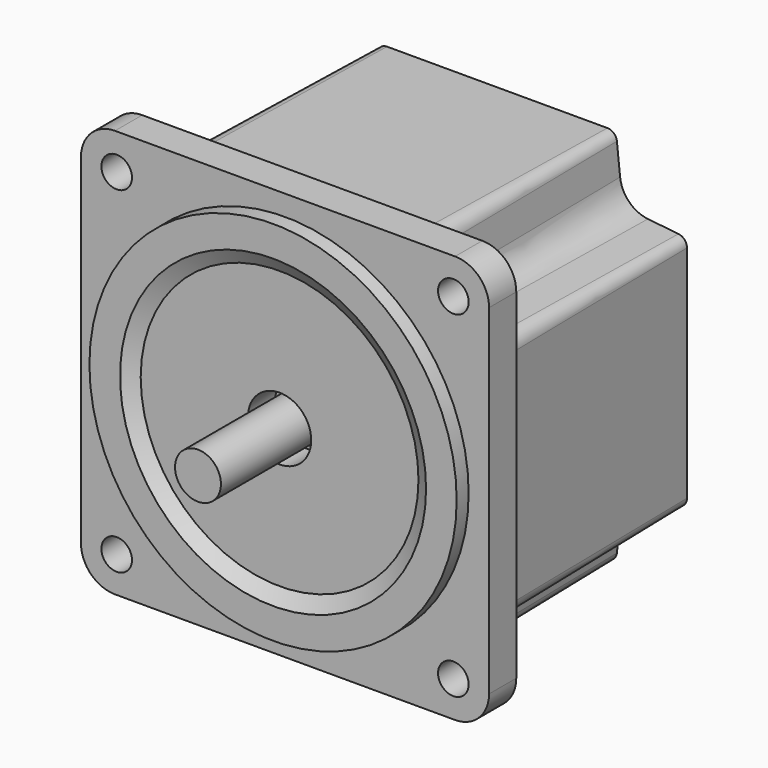
from build123d import *

# Parameters (mm, degrees)
F0_R      = 2.25
F1_DEPTH  = 5
F3_DEPTH  = 34
F3_TAPER  = 1
F4_R      = 27
F5_DEPTH  = 2.2
F6_R      = 22.5
F7_DEPTH  = 1.2
F7_TAPER  = 60
F8_R      = 4.65
F9_DEPTH  = 5
F10_R     = 3.375
F11_DEPTH = 20


with BuildPart() as f1:
    # F0 (on Front) → F1 (new body)
    with BuildSketch(Plane.XZ):
        with BuildLine():
            ThreePointArc((30, 25), (28.5355339059, 28.5355339059), (25, 30))
            Line((25, 30), (-25, 30))
            ThreePointArc((-25, 30), (-28.5355339059, 28.5355339059), (-30, 25))
            Line((-30, 25), (-30, -25))
            ThreePointArc((-30, -25), (-28.5355339059, -28.5355339059), (-25, -30))
            Line((-25, -30), (25, -30))
            ThreePointArc((25, -30), (28.5355339059, -28.5355339059), (30, -25))
            Line((30, -25), (30, 25))
        make_face()
        with Locations((-24.75, -24.75)):
            Circle(F0_R, mode=Mode.SUBTRACT)
        with Locations((24.75, -24.75)):
            Circle(F0_R, mode=Mode.SUBTRACT)
        with Locations((-24.75, 24.75)):
            Circle(F0_R, mode=Mode.SUBTRACT)
        with Locations((24.75, 24.75)):
            Circle(F0_R, mode=Mode.SUBTRACT)
    extrude(amount=-F1_DEPTH)

    # F2 (on face) → F3 (join)
    with BuildSketch(Plane(origin=(0, 5, 0), x_dir=(-1, 0, 0), z_dir=(0, 1, 0))):
        with BuildLine():
            Line((-16.1994765079, -28.5), (16.1994765079, -28.5))
            ThreePointArc((16.1994765079, -28.5), (17.5376209063, -27.9863948227), (18.1884874138, -26.709369569))
            Line((18.1884874138, -26.709369569), (18.6610206978, -22.2203033714))
            ThreePointArc((18.6610206978, -22.2203033714), (19.8106153847, -19.8106153847), (22.2203033714, -18.6610206978))
            Line((22.2203033714, -18.6610206978), (26.709369569, -18.1884874138))
            ThreePointArc((26.709369569, -18.1884874138), (27.9863948227, -17.5376209063), (28.5, -16.1994765079))
            Line((28.5, -16.1994765079), (28.5, 16.1994765079))
            ThreePointArc((28.5, 16.1994765079), (27.9863948227, 17.5376209063), (26.709369569, 18.1884874138))
            Line((26.709369569, 18.1884874138), (22.2203033714, 18.6610206978))
            ThreePointArc((22.2203033714, 18.6610206978), (19.8106153847, 19.8106153847), (18.6610206978, 22.2203033714))
            Line((18.6610206978, 22.2203033714), (18.1884874138, 26.709369569))
            ThreePointArc((18.1884874138, 26.709369569), (17.5376209063, 27.9863948227), (16.1994765079, 28.5))
            Line((16.1994765079, 28.5), (-16.1994765079, 28.5))
            ThreePointArc((-16.1994765079, 28.5), (-17.5376209063, 27.9863948227), (-18.1884874138, 26.709369569))
            Line((-18.1884874138, 26.709369569), (-18.6610206978, 22.2203033714))
            ThreePointArc((-18.6610206978, 22.2203033714), (-19.8106153847, 19.8106153847), (-22.2203033714, 18.6610206978))
            Line((-22.2203033714, 18.6610206978), (-26.709369569, 18.1884874138))
            ThreePointArc((-26.709369569, 18.1884874138), (-27.9863948227, 17.5376209063), (-28.5, 16.1994765079))
            Line((-28.5, 16.1994765079), (-28.5, -16.1994765079))
            ThreePointArc((-28.5, -16.1994765079), (-27.9863948227, -17.5376209063), (-26.709369569, -18.1884874138))
            Line((-26.709369569, -18.1884874138), (-22.2203033714, -18.6610206978))
            ThreePointArc((-22.2203033714, -18.6610206978), (-19.8106153847, -19.8106153847), (-18.6610206978, -22.2203033714))
            Line((-18.6610206978, -22.2203033714), (-18.1884874138, -26.709369569))
            ThreePointArc((-18.1884874138, -26.709369569), (-17.5376209063, -27.9863948227), (-16.1994765079, -28.5))
        make_face()
    extrude(amount=F3_DEPTH, taper=F3_TAPER)

    # F4 (on face) → F5 (join)
    with BuildSketch(Plane.XZ):
        Circle(F4_R)
    extrude(amount=F5_DEPTH)

    # F6 (on face) → F7 (cut)
    with BuildSketch(Plane.XZ.offset(2.2)):
        Circle(F6_R)
    extrude(amount=-F7_DEPTH, taper=F7_TAPER, mode=Mode.SUBTRACT)

    # F8 (on face) → F9 (cut)
    with BuildSketch(Plane.XZ.offset(1)):
        Circle(F8_R)
    extrude(amount=-F9_DEPTH, mode=Mode.SUBTRACT)

    # F10 (on face) → F11 (join)
    with BuildSketch(Plane.XZ.offset(-4)):
        Circle(F10_R)
    extrude(amount=F11_DEPTH)


solid = f1.part
